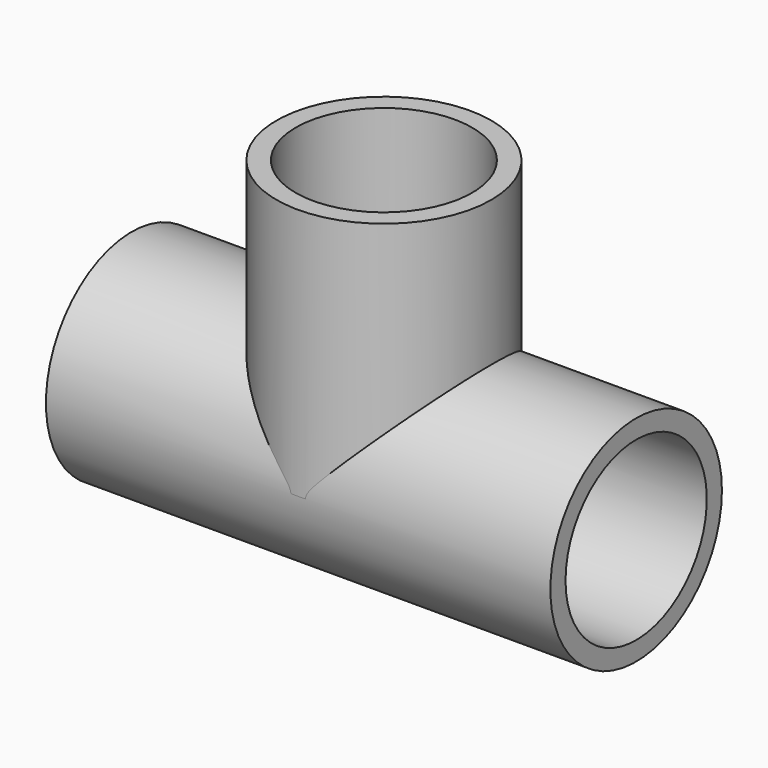
from build123d import *

# Parameters (mm, degrees)
F0_R     = 13.49375
F1_DEPTH = 31.75
F3_D     = 22.225
F4_R     = 13.5255
F5_DEPTH = 31.75
F7_D     = 22.225
F7_DEPTH = 31.75


with BuildPart() as f1:
    # F0 (on Right) → F1 (new body, symmetric)
    with BuildSketch(Plane.YZ):
        Circle(F0_R)
    extrude(amount=F1_DEPTH, both=True)

    # F3 (through all)
    with Locations(Plane.YZ.offset(31.75)):
        with Locations((0, 0)):
            Hole(F3_D / 2)

    # F4 (on Top) → F5 (join)
    with BuildSketch(Plane.XY):
        Circle(F4_R)
    extrude(amount=F5_DEPTH)

    # F7
    with Locations(Plane.XY.offset(31.75)):
        with Locations((0, 0)):
            Hole(F7_D / 2, depth=F7_DEPTH)


solid = f1.part
